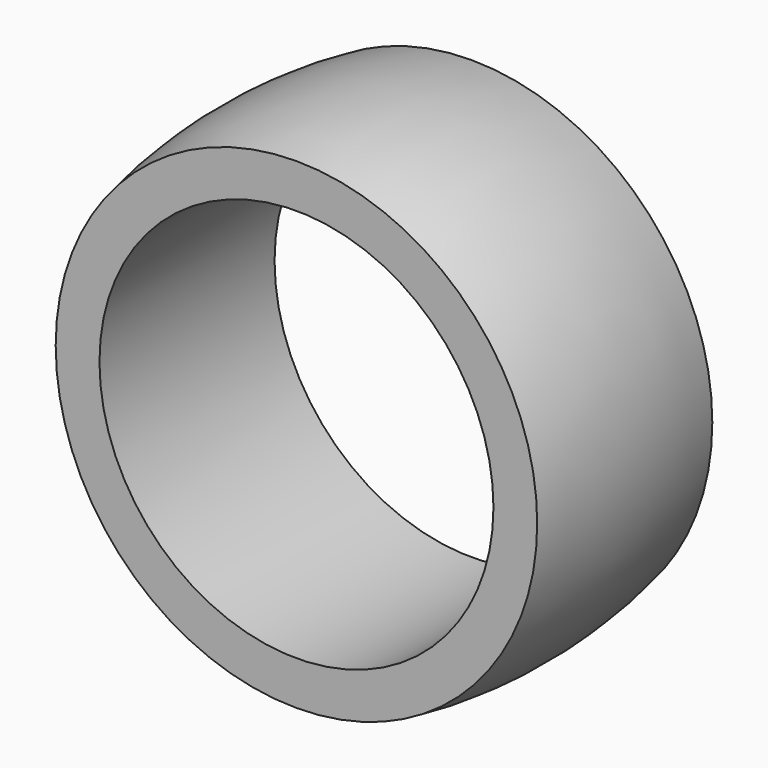
from build123d import *


with BuildPart() as f1:
    # F0 (on Top) → F1 (revolve)
    with BuildSketch(Plane.XY):
        with BuildLine():
            Line((-9, -5), (-9, 5))
            Line((-9, 5), (-11, 5))
            ThreePointArc((-11, 5), (-11.505103, 0), (-11, -5))
            Line((-11, -5), (-9, -5))
        make_face()
    revolve(axis=Axis((0, -3.140851, 0), (0, -1, 0)))


solid = f1.part
